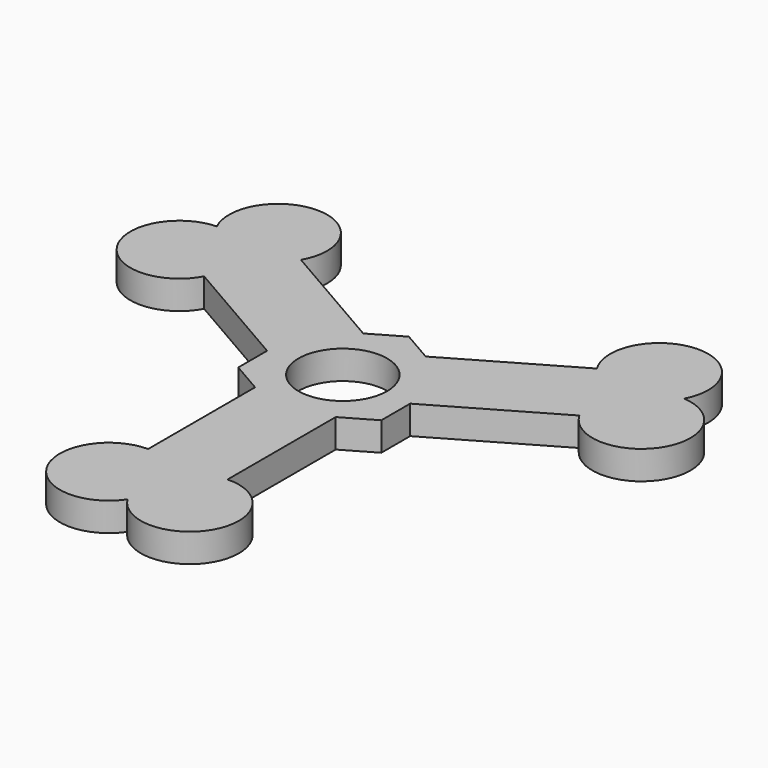
from build123d import *

# Parameters (mm, degrees)
F0_R     = 10.85
F1_DEPTH = 7


with BuildPart() as f1:
    # F0 (on Top) → F1 (new body)
    with BuildSketch(Plane.XY):
        with BuildLine():
            Line((-17.5, -10.10363), (-9.862379, -14.513212))
            Line((-9.862379, -14.513212), (-9.862379, -47.222504))
            ThreePointArc((-9.862379, -47.222504), (-20.463736, -64.844891), (0.071775, -65.953967))
            ThreePointArc((0.071775, -65.953967), (20.833211, -65.236064), (9.862379, -47.595388))
            Line((9.862379, -47.595388), (9.862379, -14.513212))
            Line((9.862379, -14.513212), (17.5, -10.10363))
            Line((17.5, -10.10363), (17.5, -1.284465))
            Line((17.5, -1.284465), (45.827078, 15.070181))
            ThreePointArc((45.827078, 15.070181), (66.389191, 14.70033), (57.081923, 33.039142))
            ThreePointArc((57.081923, 33.039142), (46.079483, 50.660122), (36.287625, 32.338765))
            Line((36.287625, 32.338765), (7.637621, 15.797677))
            Line((7.637621, 15.797677), (0, 20.207259))
            Line((0, 20.207259), (-7.637621, 15.797677))
            Line((-7.637621, 15.797677), (-35.964699, 32.152323))
            ThreePointArc((-35.964699, 32.152323), (-45.925454, 50.144561), (-57.153698, 32.914825))
            ThreePointArc((-57.153698, 32.914825), (-66.912694, 14.575942), (-46.150004, 15.256623))
            Line((-46.150004, 15.256623), (-17.5, -1.284465))
            Line((-17.5, -1.284465), (-17.5, -10.10363))
        make_face()
        Circle(F0_R, mode=Mode.SUBTRACT)
    extrude(amount=F1_DEPTH)


solid = f1.part
